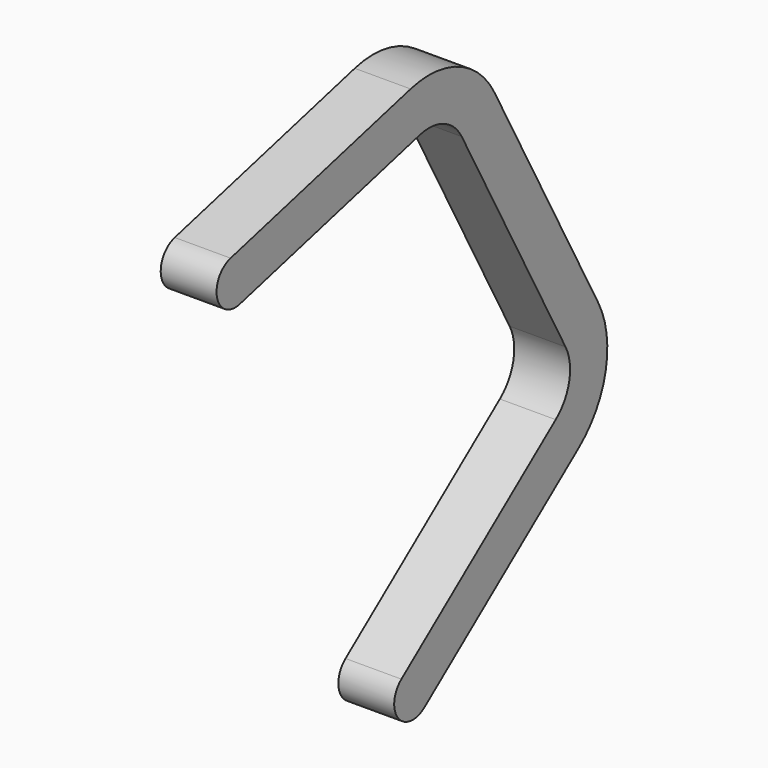
from build123d import *

# Parameters (mm, degrees)
F1_DEPTH = 6


with BuildPart() as f1:
    # F0 (on Right) → F1 (new body)
    with BuildSketch(Plane.YZ):
        with BuildLine():
            ThreePointArc((-16.283018, 14.028821), (-18.086854, 10.988068), (-15.046102, 9.184232))
            Line((-15.046102, 9.184232), (9.126632, 15.355993))
            ThreePointArc((9.126632, 15.355993), (12.359967, 15.095541), (14.753026, 12.905665))
            Line((14.753026, 12.905665), (28.689619, -12.644755))
            ThreePointArc((28.689619, -12.644755), (29.195239, -16.057846), (27.369844, -18.985777))
            Line((27.369844, -18.985777), (6.650577, -35.100761))
            ThreePointArc((6.650577, -35.100761), (6.212048, -38.608993), (9.72028, -39.047522))
            Line((9.72028, -39.047522), (30.439547, -22.932538))
            ThreePointArc((30.439547, -22.932538), (34.090337, -17.076677), (33.079097, -10.250494))
            Line((33.079097, -10.250494), (19.142503, 15.299926))
            ThreePointArc((19.142503, 15.299926), (14.356385, 19.679678), (7.889716, 20.200581))
            Line((7.889716, 20.200581), (-16.283018, 14.028821))
        make_face()
    extrude(amount=F1_DEPTH)


solid = f1.part
